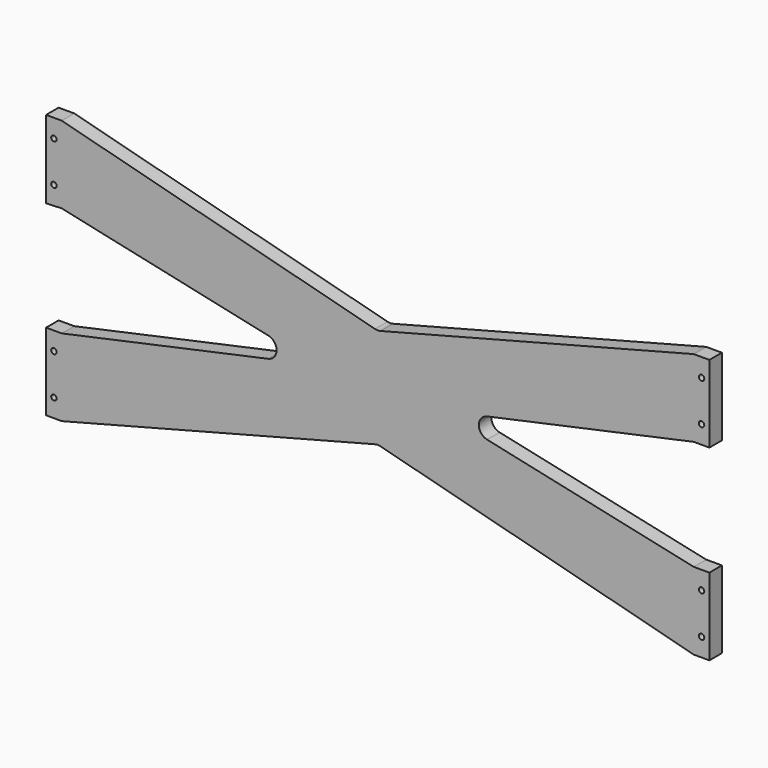
from build123d import *

# Parameters (mm, degrees)
F1_DEPTH = 19.05
F2_R     = 3.302
F3_DEPTH = 19.05


with BuildPart() as f1:
    # F0 (on Front) → F1 (new body)
    with BuildSketch(Plane.XZ):
        with BuildLine():
            Line((-403.225, 111.597332), (-384.175, 112.295426))
            Line((-384.175, 112.295426), (-132.967608, 57.811294))
            ThreePointArc((-132.967608, 57.811294), (-122.959512, 45.399862), (-132.967608, 32.988429))
            Line((-132.967608, 32.988429), (-384.175, -21.495703))
            Line((-384.175, -21.495703), (-403.224825, -21.495703))
            Line((-403.224825, -21.495703), (-403.224825, -115.320422))
            Line((-403.224825, -115.320422), (-384.175, -115.40202))
            Line((-384.175, -115.40202), (-3.197663, -16.284614))
            ThreePointArc((-3.197663, -16.284614), (0, -15.875463), (3.197663, -16.284614))
            Line((3.197663, -16.284614), (384.175, -115.40202))
            Line((384.175, -115.40202), (403.225, -115.40202))
            Line((403.225, -115.40202), (403.225, -21.495703))
            Line((403.225, -21.495703), (384.175, -21.495703))
            Line((384.175, -21.495703), (132.967608, 32.988429))
            ThreePointArc((132.967608, 32.988429), (122.959512, 45.399862), (132.967608, 57.811294))
            Line((132.967608, 57.811294), (384.175, 112.295426))
            Line((384.175, 112.295426), (403.225, 112.295426))
            Line((403.225, 112.295426), (403.225, 206.201743))
            Line((403.225, 206.201743), (384.175, 206.201743))
            Line((384.175, 206.201743), (3.197663, 107.084337))
            ThreePointArc((3.197663, 107.084337), (0, 106.675186), (-3.197663, 107.084337))
            Line((-3.197663, 107.084337), (-384.175, 206.201743))
            Line((-384.175, 206.201743), (-403.225, 206.201743))
            Line((-403.225, 206.201743), (-403.225, 111.597332))
        make_face()
    extrude(amount=F1_DEPTH)

    # F2 (on face) → F3 (cut, through all)
    with BuildSketch(Plane.XZ):
        with Locations((393.7, 184.000954)):
            Circle(F2_R)
        with Locations((393.7, 134.35708)):
            Circle(F2_R)
        with Locations((-393.7, 184.000954)):
            Circle(F2_R)
        with Locations((-393.7, 134.35708)):
            Circle(F2_R)
        with Locations((393.7, -43.557357)):
            Circle(F2_R)
        with Locations((393.7, -93.201231)):
            Circle(F2_R)
        with Locations((-393.7, -93.201231)):
            Circle(F2_R)
        with Locations((-393.7, -43.557357)):
            Circle(F2_R)
    extrude(amount=F3_DEPTH, mode=Mode.SUBTRACT)


solid = f1.part
